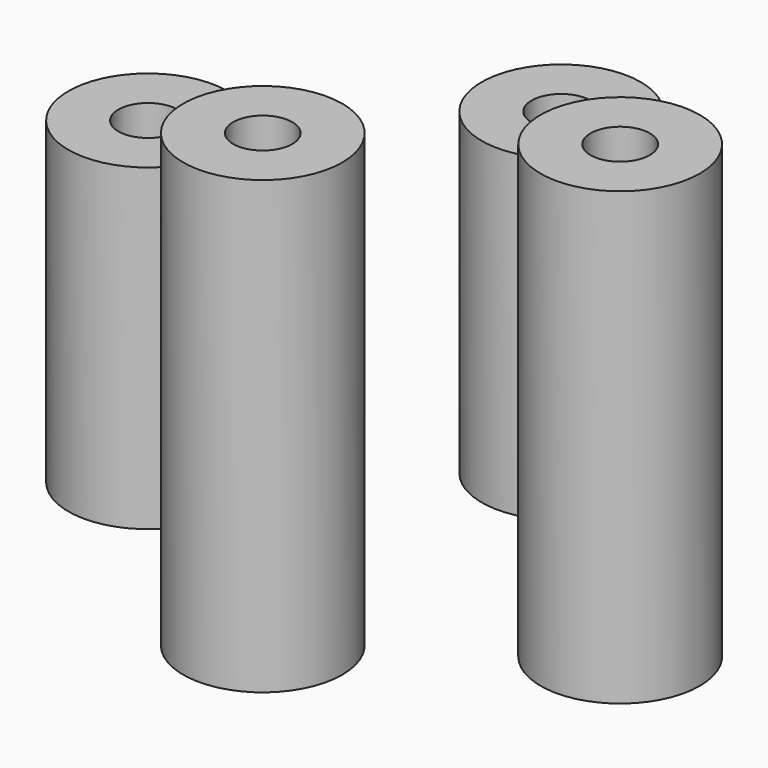
from build123d import *

# Parameters (mm, degrees)
F0_R     = 9
F0_R_2   = 3.35
F1_DEPTH = 36
F2_DEPTH = 51


with BuildPart() as f1:
    # F0 (on Top) → F1 (new body)
    with BuildSketch(Plane.XY):
        with Locations((-27.412641, 0)):
            Circle(F0_R)
        with Locations((-27.412641, 0)):
            Circle(F0_R_2, mode=Mode.SUBTRACT)
        with Locations((0, 24.137045)):
            Circle(F0_R)
        with Locations((0, 24.137045)):
            Circle(F0_R_2, mode=Mode.SUBTRACT)
    extrude(amount=F1_DEPTH)


with BuildPart() as f2:
    # F0 (on Top) → F2 (new body)
    with BuildSketch(Plane.XY):
        with Locations((0, -18.046082)):
            Circle(F0_R)
        with Locations((0, -18.046082)):
            Circle(F0_R_2, mode=Mode.SUBTRACT)
        with Locations((25.977577, 0)):
            Circle(F0_R)
        with Locations((25.977577, 0)):
            Circle(F0_R_2, mode=Mode.SUBTRACT)
    extrude(amount=F2_DEPTH)


solid = Compound([f1.part, f2.part])
